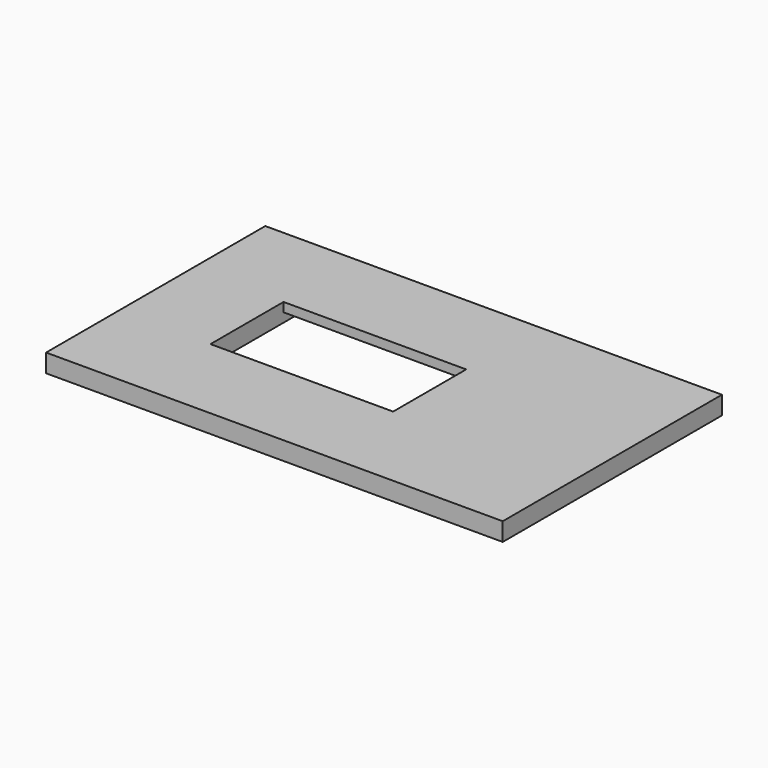
from build123d import *

# Parameters (mm, degrees)
F0_W     = 25
F0_H     = 14.999996
F1_DEPTH = 1.000001
F2_W     = 9.99998
F2_H     = 4.99999
F3_DEPTH = 25.4
F4_W     = 9.99998
F4_H     = 9.99998
F5_DEPTH = 0.499999


with BuildPart() as f1:
    # F0 (on Top) → F1 (new body)
    with BuildSketch(Plane.XY):
        Rectangle(F0_W, F0_H)
    extrude(amount=-F1_DEPTH)

    # F2 (on face) → F3 (cut)
    with BuildSketch(Plane.XY):
        with Locations((-2.499995, 0)):
            Rectangle(F2_W, F2_H)
    extrude(amount=-F3_DEPTH, mode=Mode.SUBTRACT)

    # F4 (on face) → F5 (cut)
    with BuildSketch(Plane(origin=(0, 0, -1.000001), x_dir=(1, 0, 0), z_dir=(0, 0, -1))):
        with Locations((-2.499995, 0)):
            Rectangle(F4_W, F4_H)
        with Locations((-2.499995, 0)):
            Rectangle(F4_W, F4_H)
    extrude(amount=-F5_DEPTH, mode=Mode.SUBTRACT)


solid = f1.part
